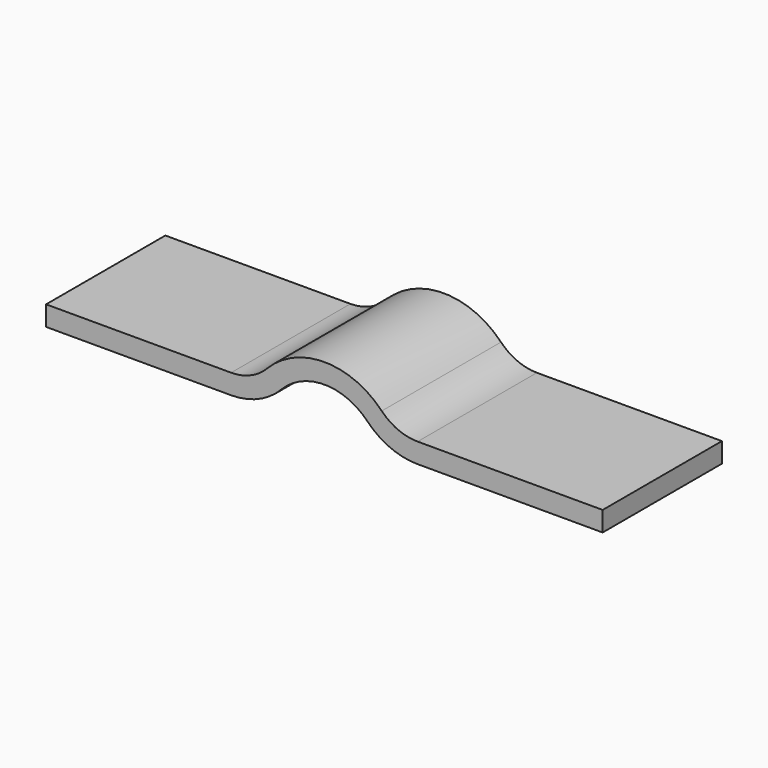
from build123d import *

# Parameters (mm, degrees)
F2_DEPTH = 15
F4_DEPTH = 25


with BuildPart() as f2:
    # F0 (on Front) → F2 (new body)
    with BuildSketch(Plane.XZ):
        with BuildLine():
            Line((-28, 4), (-28, 0))
            Line((-28, 0), (-9.380832, 0))
            ThreePointArc((-9.380832, 0), (-6.635206, 0.560937), (-4.329615, 2.153846))
            ThreePointArc((-4.329615, 2.153846), (0, 4), (4.329615, 2.153846))
            ThreePointArc((4.329615, 2.153846), (6.635206, 0.560937), (9.380832, 0))
            Line((9.380832, 0), (28, 0))
            Line((28, 0), (28, 4))
            Line((28, 4), (9.380832, 4))
            ThreePointArc((9.380832, 4), (8.204135, 4.240401), (7.216024, 4.923077))
            ThreePointArc((7.216024, 4.923077), (0, 8), (-7.216024, 4.923077))
            ThreePointArc((-7.216024, 4.923077), (-8.204135, 4.240401), (-9.380832, 4))
            Line((-9.380832, 4), (-28, 4))
        make_face()
    extrude(amount=F2_DEPTH)

    # F3 (on face) → F4 (cut)
    with BuildSketch(Plane.XZ.offset(15)):
        with BuildLine():
            ThreePointArc((-7.216024, 4.923077), (-8.204135, 4.240401), (-9.380832, 4))
            Line((-9.380832, 4), (-28, 4))
            Line((-28, 4), (-28, 2))
            Line((-28, 2), (-9.380832, 2))
            ThreePointArc((-9.380832, 2), (-7.41967, 2.400669), (-5.772819, 3.538462))
            ThreePointArc((-5.772819, 3.538462), (0, 6), (5.772819, 3.538462))
            ThreePointArc((5.772819, 3.538462), (7.41967, 2.400669), (9.380832, 2))
            Line((9.380832, 2), (28, 2))
            Line((28, 2), (28, 4))
            Line((28, 4), (9.380832, 4))
            ThreePointArc((9.380832, 4), (8.204135, 4.240401), (7.216024, 4.923077))
            ThreePointArc((7.216024, 4.923077), (0, 8), (-7.216024, 4.923077))
        make_face()
    extrude(amount=-F4_DEPTH, mode=Mode.SUBTRACT)


solid = f2.part
